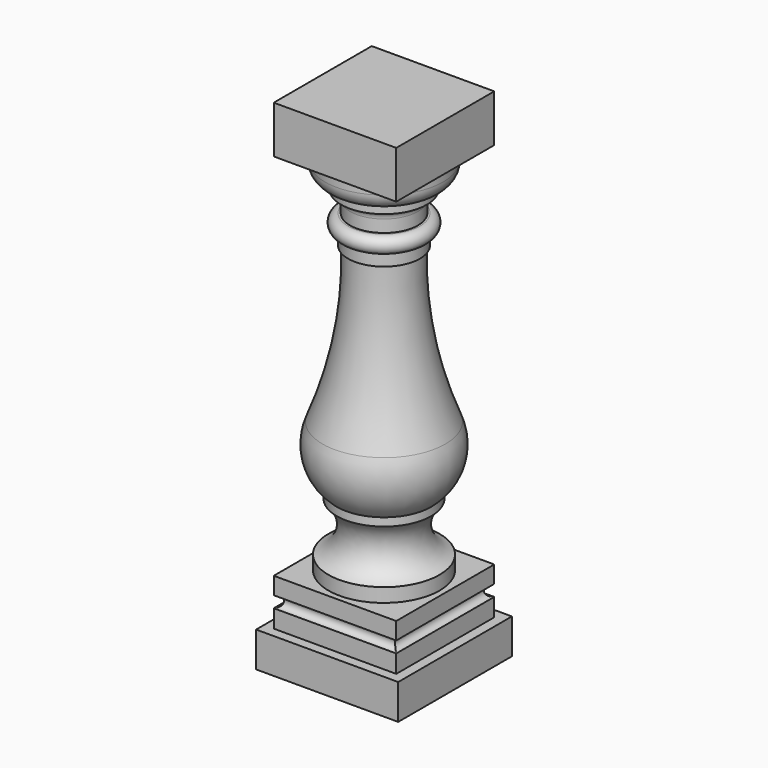
from build123d import *

# Parameters (mm, degrees)
F0_W      = 174
F0_H      = 174
F1_DEPTH  = 43
F2_W      = 150
F2_H      = 150
F3_DEPTH  = 57
F4_R      = 7
F5_DEPTH  = 162.001
F6_R      = 7
F7_DEPTH  = 162.001
F10_W     = 150
F10_H     = 150
F11_DEPTH = 58


with BuildPart() as f1:
    # F0 (on Top) → F1 (new body)
    with BuildSketch(Plane.XY):
        Rectangle(F0_W, F0_H)
    extrude(amount=F1_DEPTH)

    # F2 (on face) → F3 (join)
    with BuildSketch(Plane.XY.offset(43)):
        Rectangle(F2_W, F2_H)
    extrude(amount=F3_DEPTH)

    # F4 (on face) → F5 (cut, through all)
    with BuildSketch(Plane.YZ.offset(75)):
        with Locations((75, 72)):
            Circle(F4_R)
        with Locations((-75, 72)):
            Circle(F4_R)
    extrude(amount=-F5_DEPTH, mode=Mode.SUBTRACT)

    # F6 (on face) → F7 (cut, through all)
    with BuildSketch(Plane.XZ.offset(75)):
        with Locations((75, 72)):
            Circle(F6_R)
        with Locations((-75, 72)):
            Circle(F6_R)
    extrude(amount=-F7_DEPTH, mode=Mode.SUBTRACT)

    # F8 (on Front) → F9 (revolve)
    with BuildSketch(Plane.XZ):
        with BuildLine():
            Line((0, 552), (0, 100))
            Line((0, 100), (68, 100))
            Line((68, 100), (68, 117))
            ThreePointArc((68, 117), (45.487756, 144.055766), (57.876986, 177))
            Line((57.876986, 177), (57.876986, 187))
            ThreePointArc((57.876986, 187), (78.254408, 220.889858), (75.220037, 260.317695))
            ThreePointArc((75.220037, 260.317695), (48.239235, 353.378088), (41, 450))
            Line((41, 450), (44, 450))
            Line((44, 450), (44, 465))
            ThreePointArc((44, 465), (54, 475), (44, 485))
            Line((44, 485), (41.5, 485))
            Line((41.5, 485), (41.5, 500))
            ThreePointArc((41.5, 500), (44.721825, 507.778175), (52.5, 511))
            Line((52.5, 511), (52.5, 522))
            ThreePointArc((52.5, 522), (66.642136, 527.857864), (72.5, 542))
            Line((72.5, 542), (72.5, 552))
            Line((72.5, 552), (0, 552))
        make_face()
    revolve(axis=Axis((0, 0, 326), (0, 0, -1)))

    # F10 (on face) → F11 (join)
    with BuildSketch(Plane.XY.offset(552)):
        Rectangle(F10_W, F10_H)
    extrude(amount=F11_DEPTH)


solid = f1.part
